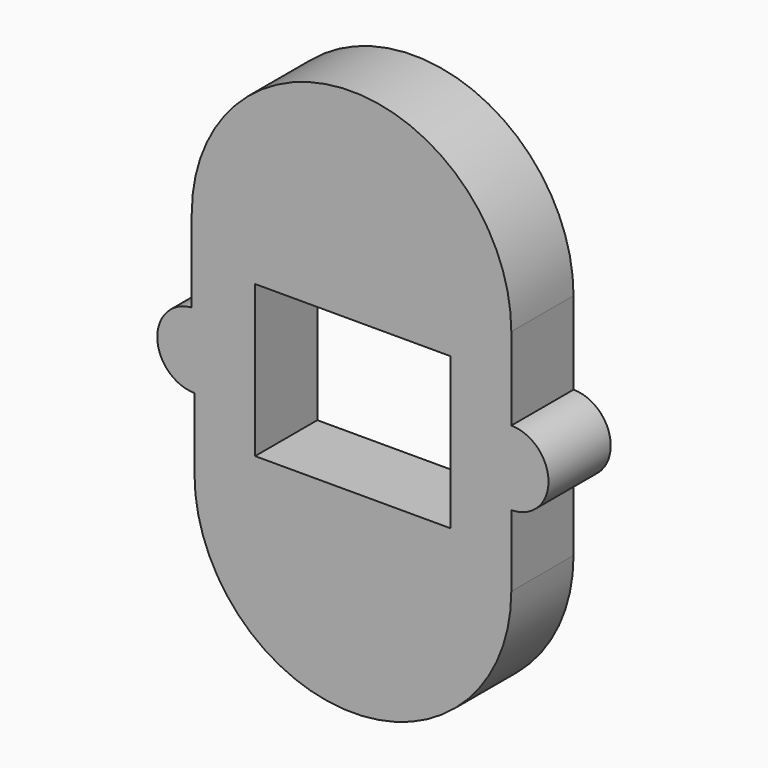
from build123d import *

# Parameters (mm, degrees)
F1_DEPTH = 8


with BuildPart() as f1:
    # F0 (on Front) → F1 (new body)
    with BuildSketch(Plane.XZ):
        Polygon((10.056205, -4.107465), (10.056205, -7.790019), (3.824189, -7.790019), (3.824189, -11.472573), (16.288221, -11.472573), (16.288221, -4.107465), align=None)
        with BuildLine():
            Line((3.824189, -11.472573), (3.824189, -7.790019))
            Line((3.824189, -7.790019), (-3.824189, -7.790019))
            Line((-3.824189, -7.790019), (-3.824189, -11.472573))
            Line((-3.824189, -11.472573), (-16.288221, -11.472573))
            ThreePointArc((-16.288221, -11.472573), (0, -27.760793), (16.288221, -11.472573))
            Line((16.288221, -11.472573), (3.824189, -11.472573))
        make_face()
        with BuildLine():
            Line((10.056205, 3.540918), (10.056205, -4.107465))
            Line((10.056205, -4.107465), (16.288221, -4.107465))
            ThreePointArc((16.288221, -4.107465), (20.112413, -0.283273), (16.288221, 3.540918))
            Line((16.288221, 3.540918), (10.056205, 3.540918))
        make_face()
        Polygon((-3.824189, -11.472573), (-3.824189, -7.790019), (-10.056205, -7.790019), (-10.056205, -4.107465), (-16.288221, -4.107465), (-16.288221, -11.472573), align=None)
        Polygon((10.056205, 7.790019), (10.056205, 3.540918), (16.288221, 3.540918), (16.288221, 12.039119), (3.824189, 12.039119), (3.824189, 7.790019), align=None)
        with BuildLine():
            Line((-16.288221, -4.107465), (-10.056205, -4.107465))
            Line((-10.056205, -4.107465), (-10.056205, 3.540918))
            Line((-10.056205, 3.540918), (-16.571494, 3.540918))
            ThreePointArc((-16.571494, 3.540918), (-20.115035, -0.419761), (-16.288221, -4.107465))
        make_face()
        with BuildLine():
            Line((-3.540916, 7.790019), (3.824189, 7.790019))
            Line((3.824189, 7.790019), (3.824189, 12.039119))
            Line((3.824189, 12.039119), (16.288221, 12.039119))
            ThreePointArc((16.288221, 12.039119), (-0.141636, 28.468977), (-16.571494, 12.039119))
            Line((-16.571494, 12.039119), (-3.540916, 12.039119))
            Line((-3.540916, 12.039119), (-3.540916, 7.790019))
        make_face()
        Polygon((-16.571494, 3.540918), (-10.056205, 3.540918), (-10.056205, 7.790019), (-3.540916, 7.790019), (-3.540916, 12.039119), (-16.571494, 12.039119), align=None)
    extrude(amount=F1_DEPTH)


solid = f1.part
